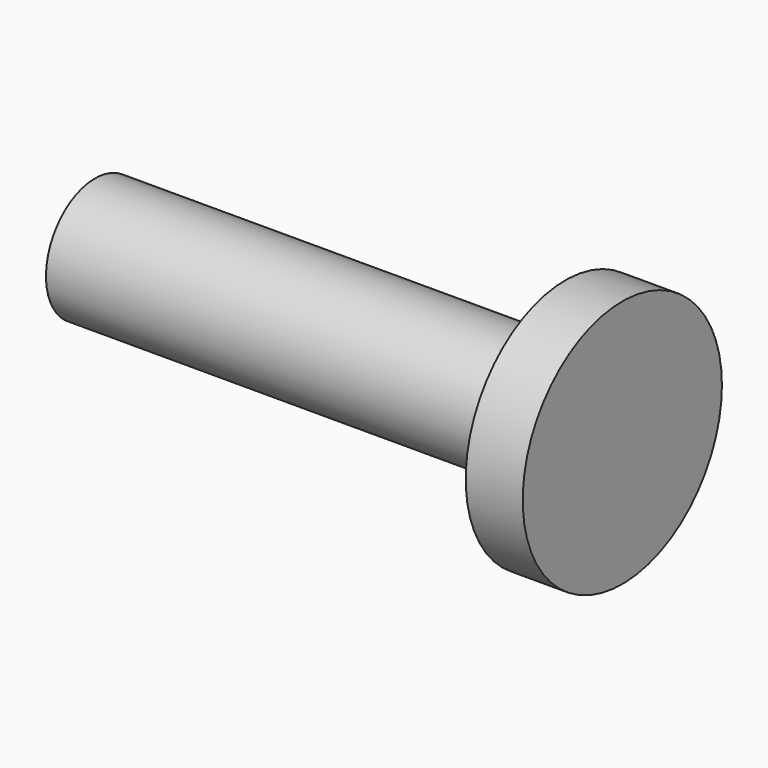
from build123d import *

# Parameters (mm, degrees)
F0_W = 129.5791268349
F0_H = 16.8833732605


with BuildPart() as f1:
    # F0 (on Top) → F1 (revolve)
    with BuildSketch(Plane.XY):
        with Locations((-64.7895634174, 8.4416866302)):
            Rectangle(F0_W, F0_H)
        Polygon((0, 34.3023277819), (0, 16.8833732605), (0, 0), (15.7043989748, 0), (15.7043989748, 34.3023277819), align=None)
    revolve(axis=Axis((-64.7895634174, 0, 0), (1, 0, 0)))


solid = f1.part
